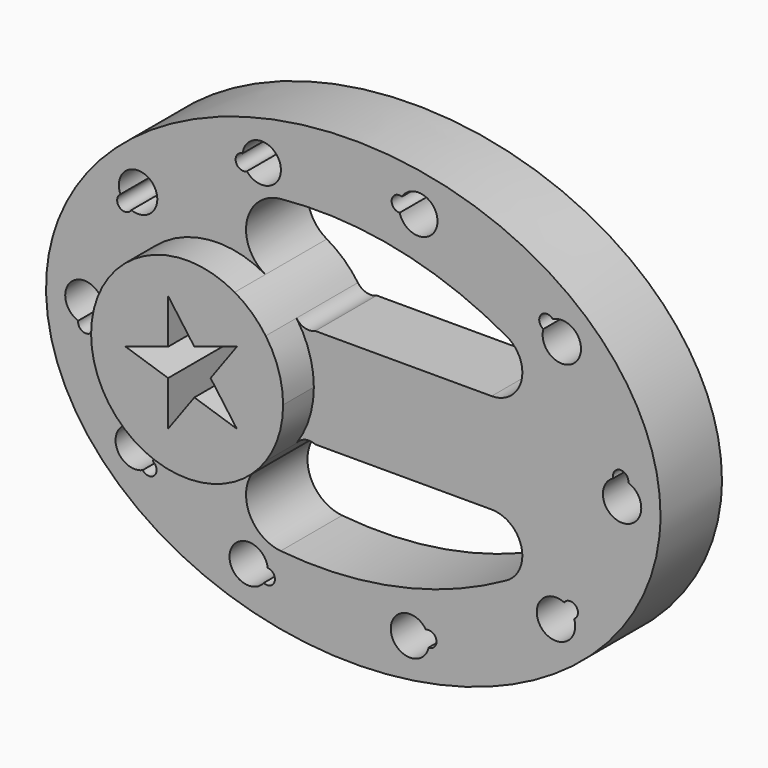
from build123d import *

# Parameters (mm, degrees)
F1_DEPTH = 254
F2_DEPTH = 381


with BuildPart() as f1:
    # F0 (on Front) → F1 (new body)
    with BuildSketch(Plane.XZ):
        with BuildLine():
            add(Edge.make_bspline(
                [(1016, 0), (1016, 1319.822715), (-508, 659.911358), (-2032, 0), (-508, -659.911358), (1016, -1319.822715), (1016, 0)],
                knots=[0, 0, 0, 2.094395, 2.094395, 4.18879, 4.18879, 6.283185, 6.283185, 6.283185], degree=2, weights=[1, 0.5, 1, 0.5, 1, 0.5, 1]))
        make_face()
        with BuildLine():
            ThreePointArc((-282.74578, -575.841268), (-259.931092, -607.901743), (-295.906751, -623.843385))
            ThreePointArc((-295.906751, -623.843385), (-406.906959, -567.604662), (-282.74578, -575.841268))
        make_face(mode=Mode.SUBTRACT)
        with BuildLine():
            ThreePointArc((-696.168659, -425.671158), (-769.37899, -325.052634), (-662.591239, -388.929203))
            ThreePointArc((-662.591239, -388.929203), (-656.880189, -427.862067), (-696.168659, -425.671158))
        make_face(mode=Mode.SUBTRACT)
        with BuildLine():
            ThreePointArc((-909.662645, -60.044193), (-893.522788, 63.338727), (-860.015425, -56.499066))
            ThreePointArc((-860.015425, -56.499066), (-882.668097, -88.674218), (-909.662645, -60.044193))
        make_face(mode=Mode.SUBTRACT)
        with BuildLine():
            ThreePointArc((249.482141, -634.434098), (125.07189, -631.999046), (240.483662, -585.480632))
            ThreePointArc((240.483662, -585.480632), (274.960655, -604.446945), (249.482141, -634.434098))
        make_face(mode=Mode.SUBTRACT)
        with BuildLine():
            ThreePointArc((730.534855, -394.558901), (623.164999, -457.452096), (697.296269, -357.510139))
            ThreePointArc((697.296269, -357.510139), (736.603203, -355.680126), (730.534855, -394.558901))
        make_face(mode=Mode.SUBTRACT)
        with BuildLine():
            ThreePointArc((-769.868619, 353.551312), (-667.668468, 424.537009), (-733.87201, 319.176053))
            ThreePointArc((-733.87201, 319.176053), (-772.920776, 314.320351), (-769.868619, 353.551312))
        make_face(mode=Mode.SUBTRACT)
        with BuildLine():
            ThreePointArc((-187.816754, 182.226835), (-145.032273, 95.541812), (-130.316044, 0))
            ThreePointArc((-130.316044, 0), (-145.032273, -95.541812), (-187.816754, -182.226835))
            ThreePointArc((-187.816754, -182.226835), (-159.634424, -162.387117), (-125.276047, -165.100065))
            Line((-125.276047, -165.100065), (457.616419, -165.100065))
            ThreePointArc((457.616419, -165.100065), (555.894935, -240.933941), (507.463987, -355.231302))
            ThreePointArc((507.463987, -355.231302), (145.83242, -491.384902), (-240.004246, -512.486089))
            ThreePointArc((-240.004246, -512.486089), (-351.772577, -412.590822), (-290.495215, -275.78326))
            ThreePointArc((-290.495215, -275.78326), (-765.316044, 0), (-290.495215, 275.78326))
            ThreePointArc((-290.495215, 275.78326), (-351.772577, 412.590822), (-240.004246, 512.486089))
            ThreePointArc((-240.004246, 512.486089), (145.83242, 491.384902), (507.463987, 355.231302))
            ThreePointArc((507.463987, 355.231302), (555.894935, 240.933941), (457.616419, 165.100065))
            Line((457.616419, 165.100065), (-125.276047, 165.100065))
            ThreePointArc((-125.276047, 165.100065), (-159.634424, 162.387117), (-187.816754, 182.226835))
        make_face(mode=Mode.SUBTRACT)
        with BuildLine():
            ThreePointArc((-365.72464, 604.064744), (-241.719684, 614.39), (-351.757586, 556.290945))
            ThreePointArc((-351.757586, 556.290945), (-387.99647, 571.624806), (-365.72464, 604.064744))
        make_face(mode=Mode.SUBTRACT)
        with BuildLine():
            ThreePointArc((909.662645, 60.044193), (893.522788, -63.338727), (860.015425, 56.499066))
            ThreePointArc((860.015425, 56.499066), (882.668097, 88.674218), (909.662645, 60.044193))
        make_face(mode=Mode.SUBTRACT)
        with BuildLine():
            ThreePointArc((161.107307, 649.31429), (277.862785, 606.279439), (153.581597, 600.112886))
            ThreePointArc((153.581597, 600.112886), (127.214869, 629.322125), (161.107307, 649.31429))
        make_face(mode=Mode.SUBTRACT)
        with BuildLine():
            ThreePointArc((660.024718, 454.707119), (739.085265, 358.617213), (628.690164, 416.034647))
            ThreePointArc((628.690164, 416.034647), (620.675485, 454.559301), (660.024718, 454.707119))
        make_face(mode=Mode.SUBTRACT)
    extrude(amount=F1_DEPTH)

    # F0 (on Front) → F2 (join)
    with BuildSketch(Plane.XZ):
        with BuildLine():
            ThreePointArc((-187.816754, -182.226835), (-145.032273, -95.541812), (-130.316044, 0))
            ThreePointArc((-130.316044, 0), (-145.032273, 95.541812), (-187.816754, 182.226835))
            ThreePointArc((-187.816754, 182.226835), (-233.976802, 234.689217), (-290.495215, 275.78326))
            ThreePointArc((-290.495215, 275.78326), (-765.316044, 0), (-290.495215, -275.78326))
            ThreePointArc((-290.495215, -275.78326), (-233.976802, -234.689217), (-187.816754, -182.226835))
        make_face()
        Polygon((-510.608297, 45.621242), (-510.608297, 193.254684), (-423.831538, 73.816721), (-283.423791, 119.437963), (-370.200551, 0), (-283.423791, -119.437963), (-423.831538, -73.816721), (-510.608297, -193.254684), (-510.608297, -45.621242), (-651.016044, 0), align=None, mode=Mode.SUBTRACT)
    extrude(amount=F2_DEPTH)


solid = f1.part
